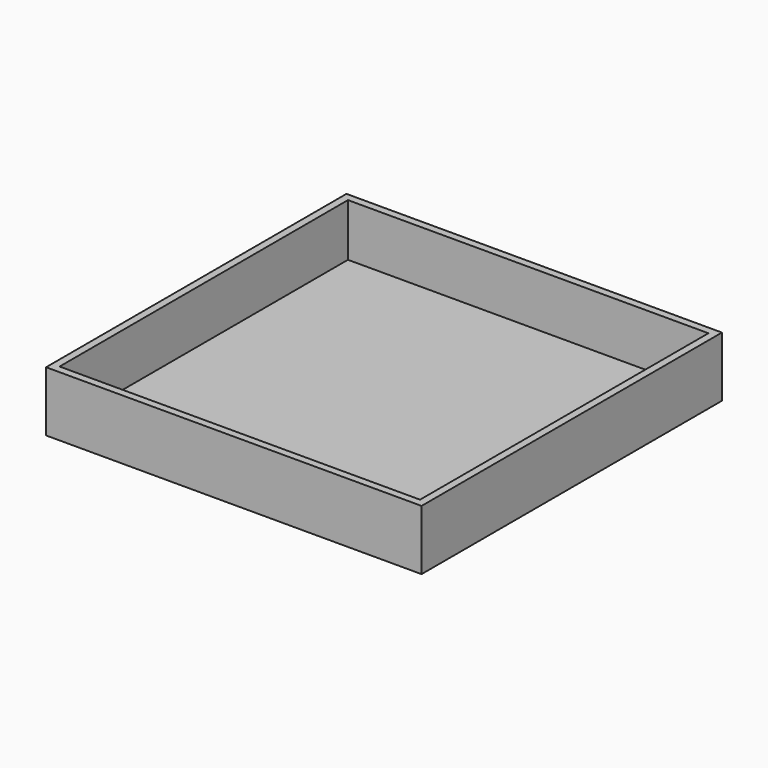
from build123d import *

# Parameters (mm, degrees)
F0_W     = 317.5
F0_H     = 317.5
F0_W_2   = 304.8
F0_H_2   = 304.8
F1_DEPTH = 50.8
F2_W     = 317.5
F2_H     = 317.5
F3_DEPTH = 6.35


with BuildPart() as f1:
    # F0 (on Top) → F1 (new body)
    with BuildSketch(Plane.XY):
        with Locations((158.75, 158.75)):
            Rectangle(F0_W, F0_H)
        with Locations((158.75, 158.75)):
            Rectangle(F0_W_2, F0_H_2, mode=Mode.SUBTRACT)
    extrude(amount=F1_DEPTH)

    # F2 (on Top) → F3 (join)
    with BuildSketch(Plane.XY):
        with Locations((158.75, 158.75)):
            Rectangle(F2_W, F2_H)
    extrude(amount=F3_DEPTH)


solid = f1.part
